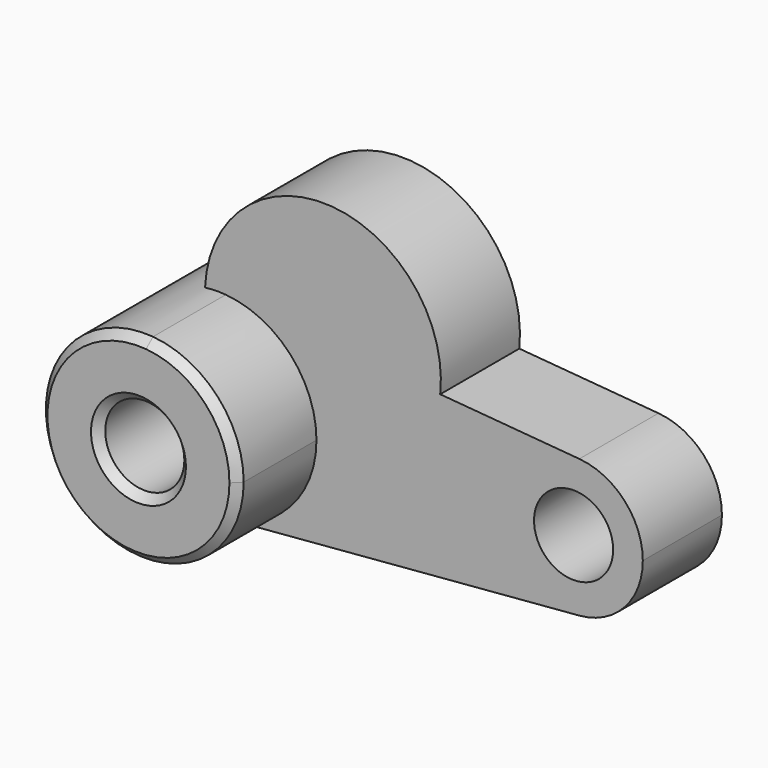
from build123d import *

# Parameters (mm, degrees)
F0_R     = 10
F1_DEPTH = 25
F2_DEPTH = 50
F3_SIZE  = 2
F5_R     = 29.820432
F6_DEPTH = 25


with BuildPart() as f1:
    # F0 (on Front) → F1 (new body)
    with BuildSketch(Plane.XZ):
        with BuildLine():
            ThreePointArc((2.083333, -24.913043), (18.399502, -16.92508), (25, 0))
            ThreePointArc((25, 0), (18.399502, 16.92508), (2.083333, 24.913043))
            ThreePointArc((2.083333, 24.913043), (-25, 0), (2.083333, -24.913043))
        make_face()
        Circle(F0_R, mode=Mode.SUBTRACT)
        with BuildLine():
            ThreePointArc((2.083333, 24.913043), (18.399502, 16.92508), (25, 0))
            ThreePointArc((25, 0), (18.399502, -16.92508), (2.083333, -24.913043))
            Line((2.083333, -24.913043), (91.458333, -17.43913))
            ThreePointArc((91.458333, -17.43913), (72.5, 0), (91.458333, 17.43913))
            Line((91.458333, 17.43913), (2.083333, 24.913043))
        make_face()
        with BuildLine():
            ThreePointArc((107.5, 0), (102.879651, 11.847556), (91.458333, 17.43913))
            ThreePointArc((91.458333, 17.43913), (72.5, 0), (91.458333, -17.43913))
            ThreePointArc((91.458333, -17.43913), (102.879651, -11.847556), (107.5, 0))
        make_face()
        with Locations((90, 0)):
            Circle(F0_R, mode=Mode.SUBTRACT)
    extrude(amount=F1_DEPTH)

    # F0 (on Front) → F2 (join)
    with BuildSketch(Plane.XZ):
        with BuildLine():
            ThreePointArc((2.083333, -24.913043), (18.399502, -16.92508), (25, 0))
            ThreePointArc((25, 0), (18.399502, 16.92508), (2.083333, 24.913043))
            ThreePointArc((2.083333, 24.913043), (-25, 0), (2.083333, -24.913043))
        make_face()
        Circle(F0_R, mode=Mode.SUBTRACT)
    extrude(amount=F2_DEPTH)

    # F3
    f3_edges = [f1.edges().sort_by_distance(p)[0] for p in [
        (-2.083333, -50, 24.913043),
        (-10, -50, 0),
        (80, -25, 0),
    ]]
    chamfer(f3_edges, length=F3_SIZE)

    # F0 (on Front) + F5 (on face) → F6 (join)
    with BuildSketch(Plane.XZ):
        with BuildLine():
            ThreePointArc((2.083333, -24.913043), (18.399502, -16.92508), (25, 0))
            ThreePointArc((25, 0), (18.399502, 16.92508), (2.083333, 24.913043))
            ThreePointArc((2.083333, 24.913043), (-25, 0), (2.083333, -24.913043))
        make_face()
        Circle(F0_R, mode=Mode.SUBTRACT)
        with BuildLine():
            ThreePointArc((2.083333, -24.913043), (18.399502, -16.92508), (25, 0))
            ThreePointArc((25, 0), (18.399502, 16.92508), (2.083333, 24.913043))
            ThreePointArc((2.083333, 24.913043), (-25, 0), (2.083333, -24.913043))
        make_face()
        Circle(F0_R, mode=Mode.SUBTRACT)
        with BuildLine():
            ThreePointArc((2.083333, 24.913043), (18.399502, 16.92508), (25, 0))
            ThreePointArc((25, 0), (18.399502, -16.92508), (2.083333, -24.913043))
            Line((2.083333, -24.913043), (91.458333, -17.43913))
            ThreePointArc((91.458333, -17.43913), (72.5, 0), (91.458333, 17.43913))
            Line((91.458333, 17.43913), (2.083333, 24.913043))
        make_face()
        with BuildLine():
            ThreePointArc((107.5, 0), (102.879651, 11.847556), (91.458333, 17.43913))
            ThreePointArc((91.458333, 17.43913), (72.5, 0), (91.458333, -17.43913))
            ThreePointArc((91.458333, -17.43913), (102.879651, -11.847556), (107.5, 0))
        make_face()
        with Locations((90, 0)):
            Circle(F0_R, mode=Mode.SUBTRACT)
        with BuildLine():
            ThreePointArc((2.083333, 24.913043), (18.399502, 16.92508), (25, 0))
            ThreePointArc((25, 0), (18.399502, -16.92508), (2.083333, -24.913043))
            Line((2.083333, -24.913043), (91.458333, -17.43913))
            ThreePointArc((91.458333, -17.43913), (72.5, 0), (91.458333, 17.43913))
            Line((91.458333, 17.43913), (2.083333, 24.913043))
        make_face()
    with BuildSketch(Plane.XZ):
        with Locations((26.628146, 23.54129)):
            Circle(F5_R)
    extrude(amount=F6_DEPTH)


solid = f1.part
